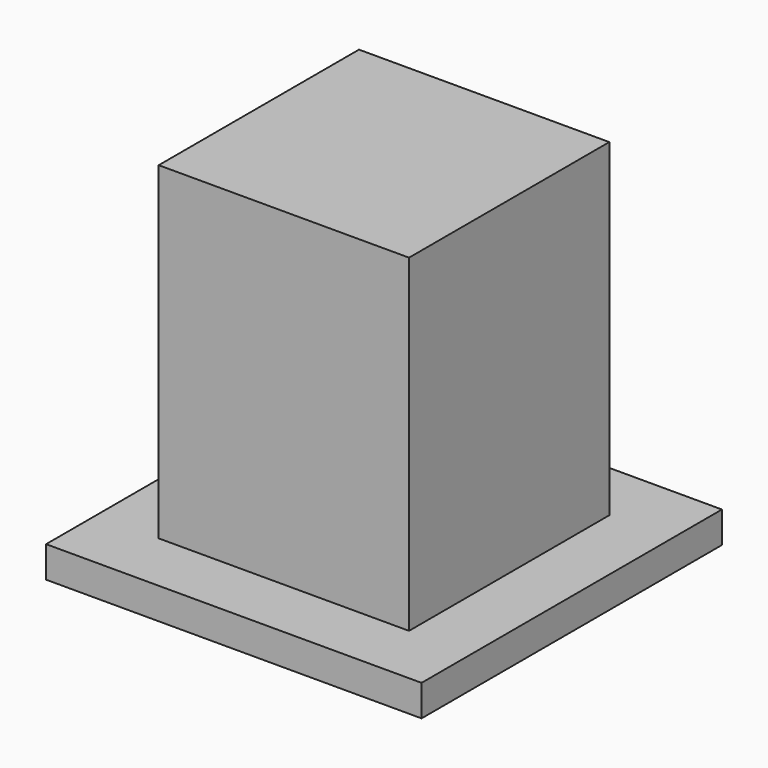
from build123d import *

# Parameters (mm, degrees)
F0_W     = 40.64
F0_H     = 40.64
F1_DEPTH = 58.42
F2_W     = 60.96
F2_H     = 60.96
F3_DEPTH = 5.08


with BuildPart() as f1:
    # F0 (on Top) → F1 (new body)
    with BuildSketch(Plane.XY):
        with Locations((20.32, -20.32)):
            Rectangle(F0_W, F0_H)
    extrude(amount=F1_DEPTH)

    # F2 (on Top) → F3 (join)
    with BuildSketch(Plane.XY):
        with Locations((20.32, -20.32)):
            Rectangle(F2_W, F2_H)
    extrude(amount=F3_DEPTH)


solid = f1.part
